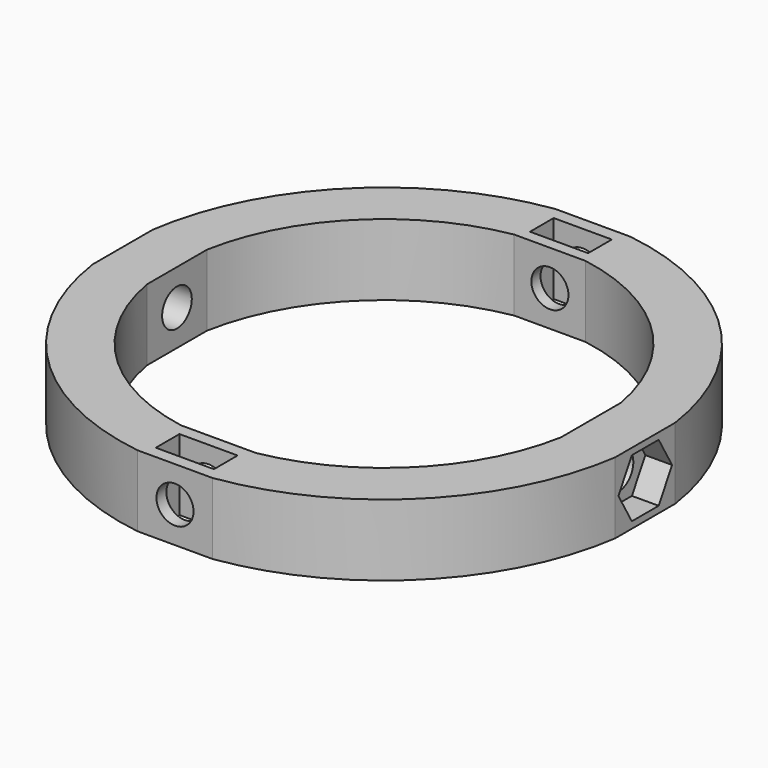
from build123d import *

# Parameters (mm, degrees)
PAD008_DEPTH          = 10
SKETCH025_R           = 2.6
POCKET015_DEPTH       = 73.249467
POCKET016_DEPTH       = 3.75
POLARPATTERN005_COUNT = 2
POLARPATTERN006_COUNT = 4
SKETCH026_W           = 8.15
SKETCH026_H           = 4.15
POCKET017_DEPTH       = 10


with BuildPart() as part:
    # Sketch023 → Pad008 (new body)
    with BuildSketch(Plane.XY):
        with BuildLine():
            Line((-36.624733, 5.256321), (-36.624733, -5.256321))
            ThreePointArc((-36.624733, -5.256321), (-26.162951, -26.162951), (-5.256321, -36.624733))
            Line((-5.256321, -36.624733), (5.256321, -36.624733))
            ThreePointArc((5.256321, -36.624733), (26.162951, -26.162951), (36.624733, -5.256321))
            Line((36.624733, 5.256321), (36.624733, -5.256321))
            ThreePointArc((36.624733, 5.256321), (26.162951, 26.162951), (5.256321, 36.624733))
            Line((-5.256321, 36.624733), (5.256321, 36.624733))
            ThreePointArc((-5.256321, 36.624733), (-26.162951, 26.162951), (-36.624733, 5.256321))
        make_face()
        with BuildLine():
            Line((-29.027936, -5.256321), (-29.027936, 5.256321))
            ThreePointArc((-5, 29.073184), (-20.767423, 20.951471), (-29.027936, 5.256321))
            Line((-5, 29.073184), (5, 29.073184))
            ThreePointArc((29.027936, 5.256321), (20.767423, 20.951471), (5, 29.073184))
            Line((29.027936, 5.256321), (29.027936, -5.256321))
            ThreePointArc((5.256321, -29.027936), (20.85965, -20.85965), (29.027936, -5.256321))
            Line((-5.256321, -29.027936), (5.256321, -29.027936))
            ThreePointArc((-29.027936, -5.256321), (-20.85965, -20.85965), (-5.256321, -29.027936))
        make_face(mode=Mode.SUBTRACT)
    extrude(amount=PAD008_DEPTH)

    # Sketch025 (on Face4 of Pad008) → Pocket015 (cut)
    with BuildSketch(Plane.XZ.offset(36.624733)):
        with Locations((0, 5)):
            Circle(SKETCH025_R)
    pocket015 = extrude(amount=-POCKET015_DEPTH, mode=Mode.SUBTRACT)

    # Sketch024 (on Face6 of Pad008) → Pocket016 (cut)
    with BuildSketch(Plane.YZ.offset(36.624733)):
        Polygon((4.705405, 5), (2.352702, 9.075), (-2.352702, 9.075), (-4.705405, 5), (-2.352702, 0.925), (2.352702, 0.925), align=None)
    pocket016 = extrude(amount=-POCKET016_DEPTH, mode=Mode.SUBTRACT)

    # PolarPattern005: Pocket016 ×2 about axis
    polarpattern005_axis = Axis((0, 0, 0), (0, 0, 1))
    for i in range(1, POLARPATTERN005_COUNT):
        add(pocket016.rotate(polarpattern005_axis, i * 360 / POLARPATTERN005_COUNT), mode=Mode.SUBTRACT)

    # PolarPattern006: Pocket015 ×4 about axis
    polarpattern006_axis = Axis((0, 0, 0), (0, 0, 1))
    for i in range(1, POLARPATTERN006_COUNT):
        add(pocket015.rotate(polarpattern006_axis, i * 360 / POLARPATTERN006_COUNT), mode=Mode.SUBTRACT)

    # Sketch026 (on Face5 of PolarPattern006) → Pocket017 (cut)
    with BuildSketch(Plane.XY.offset(10)):
        with Locations((0, -32.826335)):
            Rectangle(SKETCH026_W, SKETCH026_H)
        with Locations((0, 32.754596)):
            Rectangle(SKETCH026_W, SKETCH026_H)
    extrude(amount=-POCKET017_DEPTH, mode=Mode.SUBTRACT)


solid = part.part
